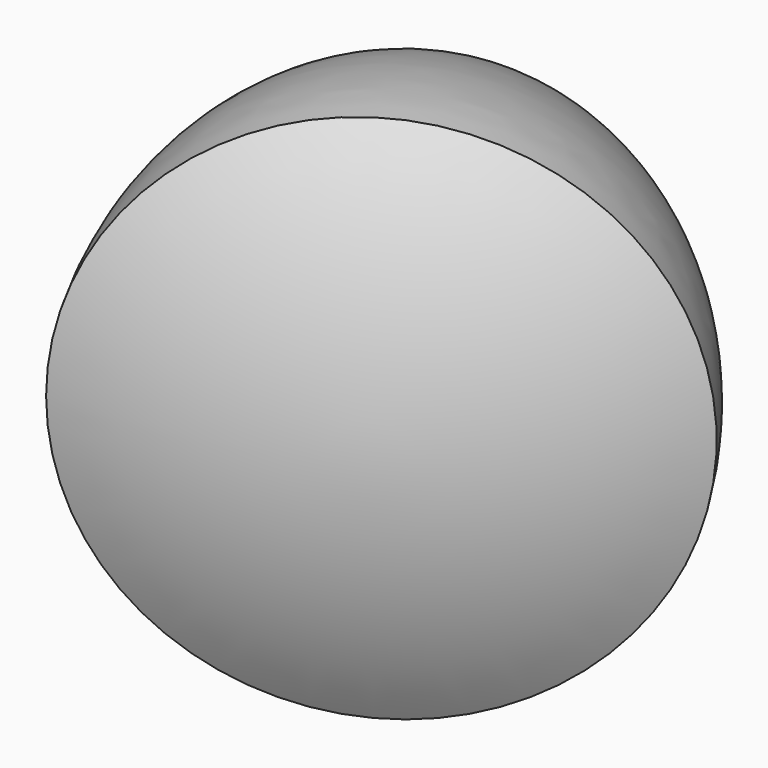
from build123d import *


with BuildPart() as f1:
    # F0 (on Top) → F1 (revolve)
    with BuildSketch(Plane.XY):
        Polygon((19.7409244793, -31.2573250508), (-36.5204258628, 64.1992861634), (-37.3379997909, -63.7272596359), align=None)
        with BuildLine():
            Line((-37.3379997909, -63.7272596359), (-36.5204258628, 64.1992861634))
            ThreePointArc((-36.5204258628, 64.1992861634), (-54.0681201456, 0.3455474006), (-37.3379997909, -63.7272596359))
        make_face()
        with BuildLine():
            Line((19.7409244793, -31.2573250508), (-37.3379997909, -63.7272596359))
            ThreePointArc((-37.3379997909, -63.7272596359), (-3.2497280666, -59.3277562825), (28.4369072706, -46.0114865381))
            Line((28.4369072706, -46.0114865381), (19.7409244793, -31.2573250508))
        make_face()
    revolve(axis=Axis((-4.0417592961, 9.0938998126, 0), (0.5077601853, -0.8614984586, 0)))


solid = f1.part
